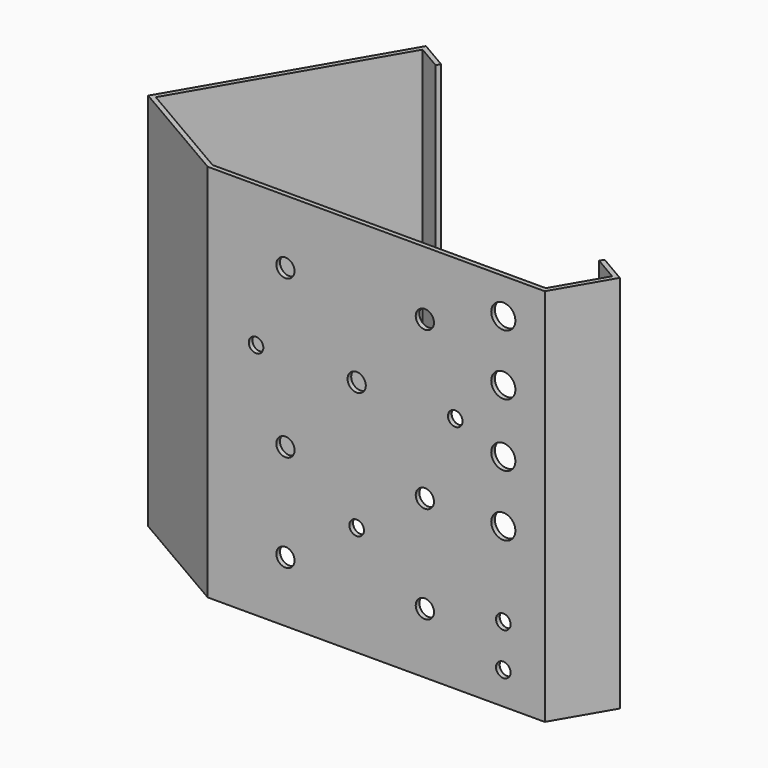
from build123d import *

# Parameters (mm, degrees)
F1_DEPTH = 165.1
F2_R     = 3.175
F2_R_2   = 5.258372
F2_R_3   = 3.9751
F3_DEPTH = 2.0066


with BuildPart() as f1:
    # F0 (on Top) → F1 (new body)
    with BuildSketch(Plane.XY):
        Polygon((-48.481672, 28.243626), (0, 0), (146.7866, 0), (160.556806, 23.637284), (148.178507, 30.848423), (147.156564, 29.121499), (157.812896, 22.913515), (145.633301, 2.0066), (0.541864, 2.0066), (-45.737762, 28.967395), (3.205924, 112.98181), (13.838512, 106.787658), (14.860455, 108.514582), (2.482155, 115.725721), align=None)
    extrude(amount=F1_DEPTH)

    # F2 (on face) → F3 (cut, through all)
    with BuildSketch(Plane(origin=(0, 2.0066, 0), x_dir=(-1, 0, 0), z_dir=(0, 1, 0))):
        with Locations((-128.742301, 14.097)):
            Circle(F2_R)
        with Locations((-128.742301, 32.5374)):
            Circle(F2_R)
        with Locations((-128.742301, 69.1134)):
            Circle(F2_R_2)
        with Locations((-128.742301, 95.7834)):
            Circle(F2_R_2)
        with Locations((-128.742301, 123.2154)):
            Circle(F2_R_2)
        with Locations((-128.742301, 149.6314)):
            Circle(F2_R_2)
        with Locations((-107.812701, 103.5812)):
            Circle(F2_R)
        with Locations((-94.579301, 26.416)):
            Circle(F2_R_3)
        with Locations((-94.579301, 68.707)):
            Circle(F2_R_3)
        with Locations((-94.579301, 137.3632)):
            Circle(F2_R_3)
        with Locations((-64.886701, 47.7774)):
            Circle(F2_R)
        with Locations((-64.886701, 103.5812)):
            Circle(F2_R_3)
        with Locations((-33.873301, 26.416)):
            Circle(F2_R_3)
        with Locations((-33.873301, 68.707)):
            Circle(F2_R_3)
        with Locations((-33.873301, 137.3632)):
            Circle(F2_R_3)
        with Locations((-21.071701, 103.5812)):
            Circle(F2_R)
    extrude(amount=-F3_DEPTH, mode=Mode.SUBTRACT)


solid = f1.part
